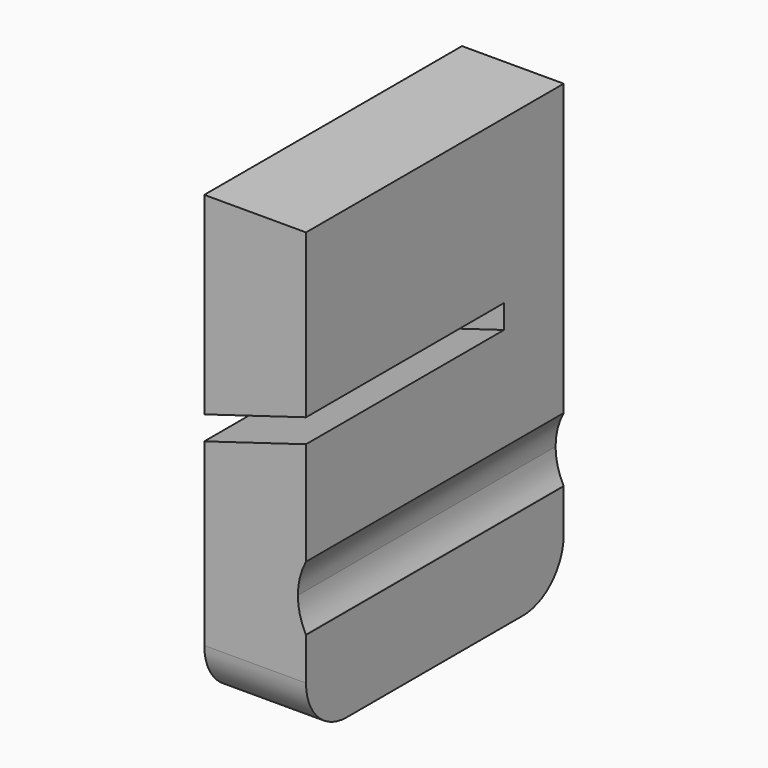
from build123d import *

# Parameters (mm, degrees)
F0_W      = 1
F0_H      = 2.5
F0_H_2    = 1.5
F1_DEPTH  = 10
F3_W      = 4
F3_H      = 2.7
F3_W_2    = 1
F4_DEPTH  = 7
F6_DEPTH  = 7.3
F7_DEPTH  = 1
F8_DEPTH  = 0.5
F9_DEPTH  = 0.5
F10_DEPTH = 0.5
F11_W     = 2
F11_H     = 14.978
F12_DEPTH = 25
F13_DEPTH = 1.2
F14_R     = 1.5


with BuildPart() as f1:
    # F0 (on Front) → F1 (new body)
    with BuildSketch(Plane.XZ):
        with BuildLine():
            Line((0, 2.5), (0, 0))
            Line((0, 0), (4, 0))
            Line((4, 0), (4, 1.55))
            Line((4, 1.55), (3.990259403, 1.5685071343))
            ThreePointArc((3.990259403, 1.5685071343), (3.8184891819, 2.0202463599), (3.7600958477, 2.5))
            ThreePointArc((3.7600958477, 2.5), (3.8184891819, 2.9797536401), (3.990259403, 3.4314928657))
            Line((3.990259403, 3.4314928657), (4, 3.45))
            Line((4, 3.45), (4, 4))
            Line((4, 4), (0, 4))
            Line((0, 4), (0, 2.5))
        make_face()
        with Locations((-0.5, 1.25)):
            Rectangle(F0_W, F0_H)
        Polygon((4, 0), (0, 0), (-1, 0), (4, -1.5), align=None)
        with Locations((-0.5, 3.25)):
            Rectangle(F0_W, F0_H_2)
    extrude(amount=F1_DEPTH)

    # F3 (on offset) → F4 (join)
    with BuildSketch(Plane.XY.offset(1)):
        with Locations((2, -1.35)):
            Rectangle(F3_W, F3_H)
        with Locations((-0.5, -1.35)):
            Rectangle(F3_W_2, F3_H)
    extrude(amount=-F4_DEPTH)

    # F5 (on face) → F6 (join, through all)
    with BuildSketch(Plane.XZ.offset(2.7)):
        Polygon((-1, -6), (4, -6), (4, -2.2), (-1, -0.7), align=None)
    extrude(amount=F6_DEPTH)

    # F7 (add): a face of the model
    f7_faces = [f1.faces().sort_by_distance(p)[0] for p in [
        (1.5, -5, -6),
    ]]
    extrude(f7_faces, amount=F7_DEPTH)

    # F8 (add): a face of the model
    f8_faces = [f1.faces().sort_by_distance(p)[0] for p in [
        (1.5, -5, 4),
    ]]
    extrude(f8_faces, amount=F8_DEPTH)

    # F9 (cut): a face of the model
    f9_faces = [f1.faces().sort_by_distance(p)[0] for p in [
        (1.4870709663, 0, -1.2701719647),
    ]]
    extrude(f9_faces, amount=-F9_DEPTH, mode=Mode.SUBTRACT)

    # F10 (add): a face of the model
    f10_faces = [f1.faces().sort_by_distance(p)[0] for p in [
        (1.5, -5.25, 4.5),
    ]]
    extrude(f10_faces, amount=F10_DEPTH)

    # F11 (on face) → F12 (cut)
    with BuildSketch(Plane.XZ.offset(10)):
        with Locations((0, -0.511)):
            Rectangle(F11_W, F11_H)
    extrude(amount=-F12_DEPTH, mode=Mode.SUBTRACT)

    # F13 (add): a face of the model
    f13_faces = [f1.faces().sort_by_distance(p)[0] for p in [
        (2.5, -5.25, 5),
    ]]
    extrude(f13_faces, amount=F13_DEPTH)

    # F14
    f14_edges = [f1.edges().sort_by_distance(p)[0] for p in [
        (2.5, -10, 6.2),
        (2.5, -0.5, 6.2),
    ]]
    fillet(f14_edges, radius=F14_R)


with BuildPart() as f16_1:
    # F16: instance of F1
    add(f1.part.mirror(Plane(origin=(2.5, -5.25, -8), x_dir=(1, 0, 0), z_dir=(0, 0, -1))))


solid = f16_1.part
